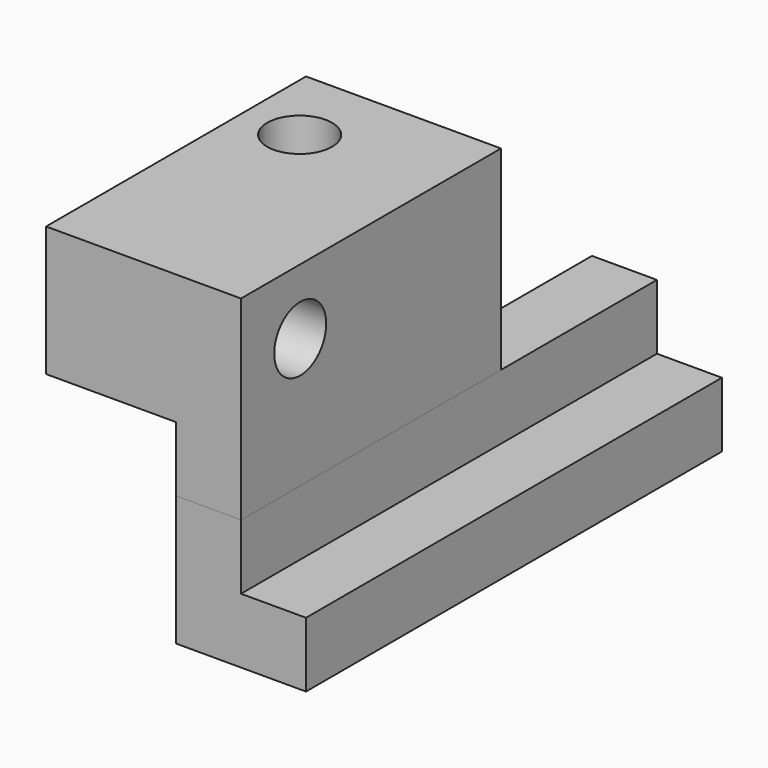
from build123d import *

# Parameters (mm, degrees)
F1_DEPTH = 50.8
F3_DEPTH = 31.75
F4_R     = 3.175
F5_DEPTH = 19.051
F6_R     = 3.175
F7_DEPTH = 31.751


with BuildPart() as f1:
    # F0 (on Front) → F1 (new body)
    with BuildSketch(Plane.XZ):
        Polygon((7.686454, 7.444258), (1.336454, 7.444258), (1.336454, -5.255742), (14.036454, -5.255742), (14.036454, 1.094258), (7.686454, 1.094258), align=None)
    extrude(amount=F1_DEPTH)


with BuildPart() as f3:
    # F2 (on face) → F3 (new body)
    with BuildSketch(Plane.XZ.offset(50.8)):
        Polygon((1.336454, 13.794258), (1.336454, 7.444258), (7.686454, 7.444258), (7.686454, 26.494258), (-11.363546, 26.494258), (-11.363546, 13.794258), align=None)
    extrude(amount=-F3_DEPTH)

    # F4 (on face) → F5 (cut, through all)
    with BuildSketch(Plane.YZ.offset(7.686454)):
        with Locations((-43.571215, 20.098496)):
            Circle(F4_R)
    extrude(amount=-F5_DEPTH, mode=Mode.SUBTRACT)

    # F6 (on face) → F7 (cut, through all)
    with BuildSketch(Plane.XY.offset(26.494258)):
        with Locations((-5.722302, -26.881824)):
            Circle(F6_R)
    extrude(amount=-F7_DEPTH, mode=Mode.SUBTRACT)


solid = Compound([f1.part, f3.part])
